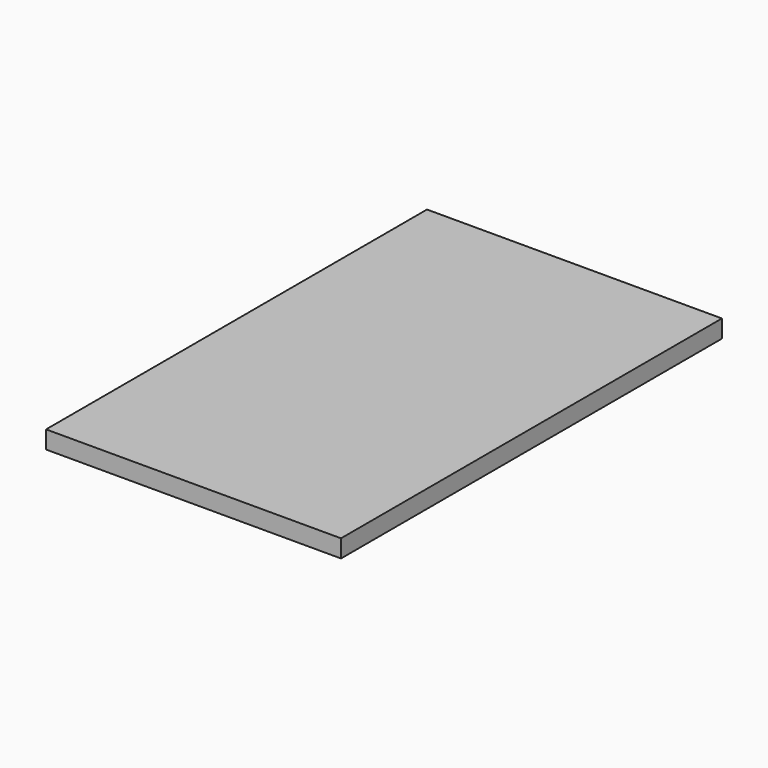
from build123d import *

# Parameters (mm, degrees)
F0_W     = 415
F0_H     = 670
F1_DEPTH = 25
F2_T     = -20
F3_R     = 4
F4_DEPTH = 5


with BuildPart() as f1:
    # F0 (on Top) → F1 (new body)
    with BuildSketch(Plane.XY):
        Rectangle(F0_W, F0_H)
    extrude(amount=F1_DEPTH)

    # F2
    f2_openings = [f1.faces().sort_by_distance(p)[0] for p in [
        (0, 0, 0),
    ]]
    offset(amount=F2_T, openings=f2_openings)

    # F3 (on face) → F4 (cut)
    with BuildSketch(Plane(origin=(0, 0, 0), x_dir=(1, 0, 0), z_dir=(0, 0, -1))):
        with Locations((-197.5, 275)):
            Circle(F3_R)
        with Locations((-197.5, 205)):
            Circle(F3_R)
        with Locations((197.5, 275)):
            Circle(F3_R)
        with Locations((197.5, 205)):
            Circle(F3_R)
        with Locations((-147.5, 325)):
            Circle(F3_R)
        with Locations((-77.5, 325)):
            Circle(F3_R)
        with Locations((-77.5, -325)):
            Circle(F3_R)
        with Locations((-147.5, -325)):
            Circle(F3_R)
    extrude(amount=-F4_DEPTH, mode=Mode.SUBTRACT)


solid = f1.part
